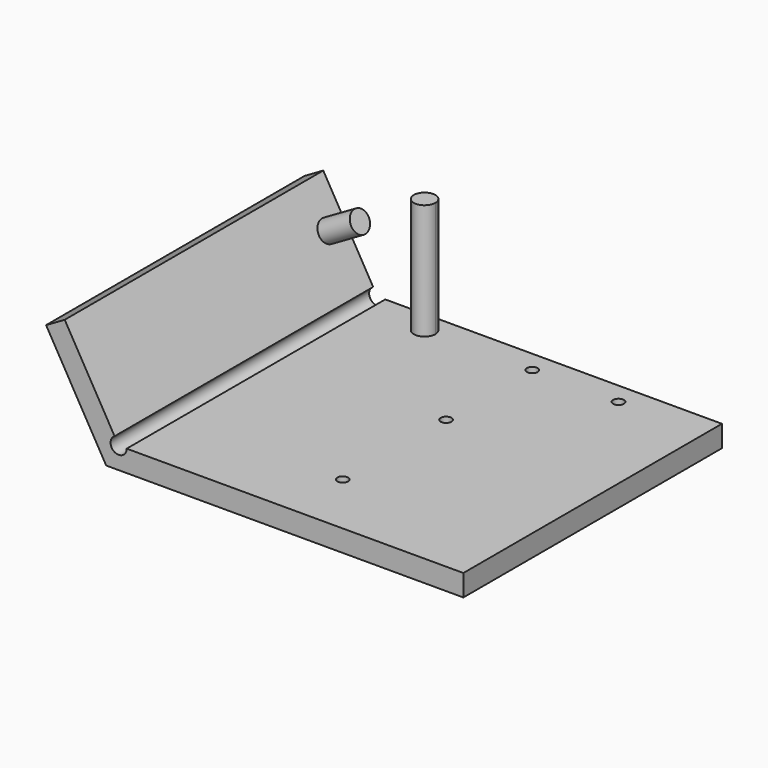
from build123d import *

# Parameters (mm, degrees)
F1_DEPTH = 190.5
F2_R     = 3.175
F3_DEPTH = 25.4
F5_DEPTH = 68.1482
F6_R     = 6.35
F7_DEPTH = 21.9964


with BuildPart() as f1:
    # F0 (on Front) → F1 (new body)
    with BuildSketch(Plane.XZ):
        with BuildLine():
            Line((-35.4203, 61.3497592193), (0, 0))
            Line((0, 0), (7.3406, 0))
            Line((7.3406, 0), (210.5406, 0))
            Line((210.5406, 0), (210.5406, 12.7))
            Line((210.5406, 12.7), (12.1031, 12.7))
            ThreePointArc((12.1031, 12.7), (4.9595820343, 8.5754200581), (4.9588859541, 16.8241780337))
            Line((4.9588859541, 16.8241780337), (-24.4217773719, 67.6997592193))
            Line((-24.4217773719, 67.6997592193), (-35.4203, 61.3497592193))
        make_face()
    extrude(amount=F1_DEPTH)

    # F2 (on face) → F3 (cut)
    with BuildSketch(Plane.XY.offset(12.7)):
        with Locations((108.9406, -12.7)):
            Circle(F2_R)
        with Locations((108.9406, -76.2)):
            Circle(F2_R)
        with Locations((159.7406, -12.7)):
            Circle(F2_R)
        with Locations((108.9406, -152.4)):
            Circle(F2_R)
    extrude(amount=-F3_DEPTH, mode=Mode.SUBTRACT)

    # F4 (on face) → F5 (join)
    with BuildSketch(Plane.XY.offset(12.7)):
        with BuildLine():
            ThreePointArc((51.7906, -12.7), (49.9307280605, -8.2098719395), (45.4406, -6.35))
            Line((45.4406, -6.35), (45.4406, -12.7))
            Line((45.4406, -12.7), (51.7906, -12.7))
        make_face()
        with BuildLine():
            Line((45.4406, -12.7), (45.4406, -6.35))
            ThreePointArc((45.4406, -6.35), (40.9504719395, -17.1901280605), (51.7906, -12.7))
            Line((51.7906, -12.7), (45.4406, -12.7))
        make_face()
    extrude(amount=F5_DEPTH)

    # F6 (on face) → F7 (join)
    with BuildSketch(Plane(origin=(11.0047103243, 0, 6.3552234983), x_dir=(0, 1, 0), z_dir=(0.8659691409, 0, 0.5000974375))):
        with Locations((-12.7, 45.4391706143)):
            Circle(F6_R)
    extrude(amount=F7_DEPTH)


solid = f1.part
